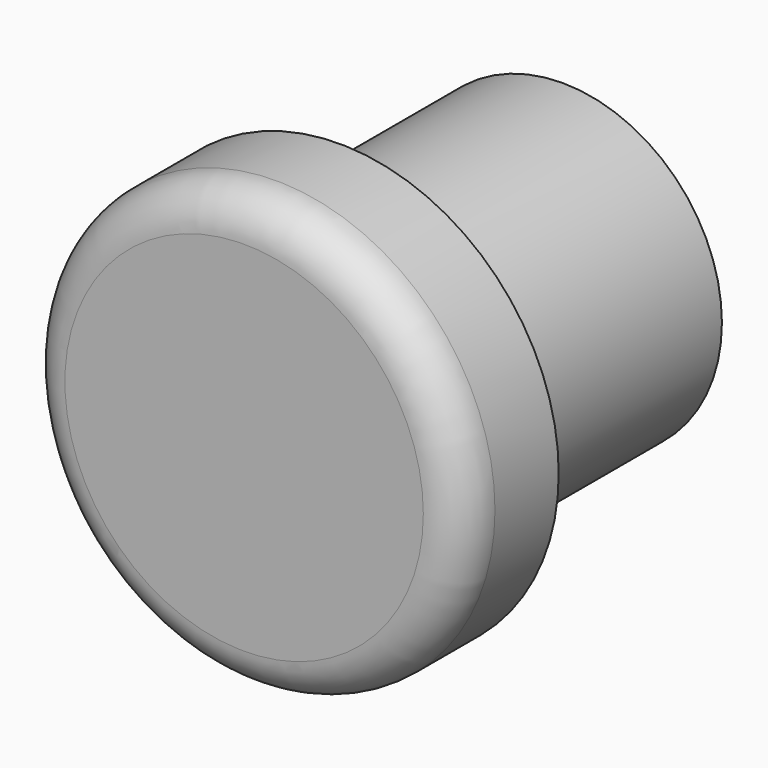
from build123d import *

# Parameters (mm, degrees)
F0_W = 2
F0_H = 7


with BuildPart() as f1:
    # F0 (on Top) → F1 (revolve)
    with BuildSketch(Plane.XY):
        with BuildLine():
            Line((0, 3), (0, 0))
            Line((0, 0), (4.500847, 0))
            ThreePointArc((4.500847, 0), (5.207954, 0.292893), (5.500847, 1))
            Line((5.500847, 1), (5.500847, 3))
            Line((5.500847, 3), (4, 3))
            Line((4, 3), (2, 3))
            Line((2, 3), (0, 3))
        make_face()
        with Locations((3, 6.5)):
            Rectangle(F0_W, F0_H)
    revolve(axis=Axis((0, 6.246109, 0), (0, 1, 0)))


with BuildPart() as f2:
    # F0 (on Top) → F2 (revolve)
    with BuildSketch(Plane.XY):
        with Locations((1, 6.5)):
            Rectangle(F0_W, F0_H)
        with BuildLine():
            Line((0, 3), (0, 0))
            Line((0, 0), (4.500847, 0))
            ThreePointArc((4.500847, 0), (5.207954, 0.292893), (5.500847, 1))
            Line((5.500847, 1), (5.500847, 3))
            Line((5.500847, 3), (4, 3))
            Line((4, 3), (2, 3))
            Line((2, 3), (0, 3))
        make_face()
    revolve(axis=Axis((0, 6.246109, 0), (0, 1, 0)))


solid = Compound([f1.part, f2.part])
